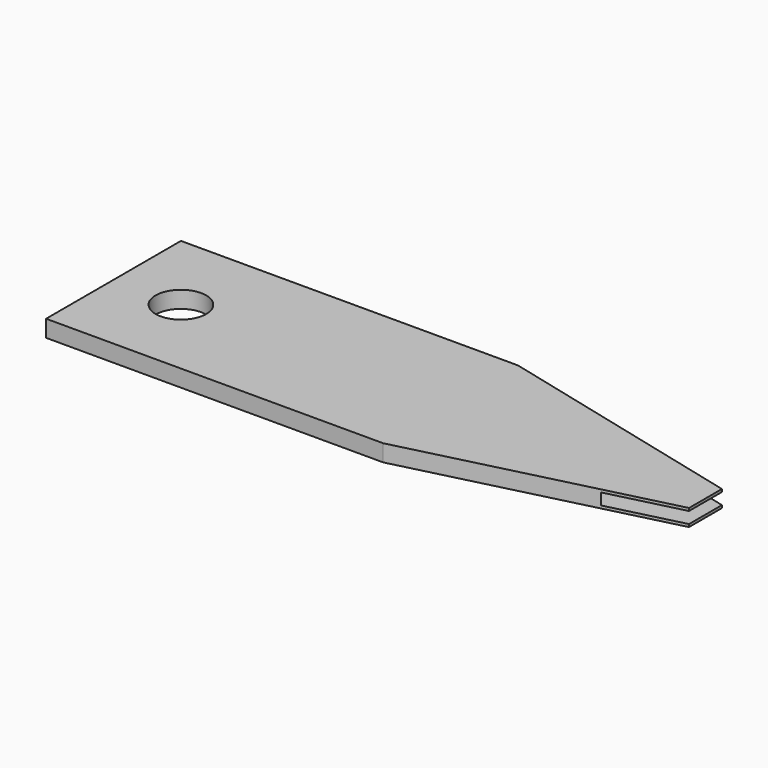
from build123d import *

# Parameters (mm, degrees)
F0_W      = 50.8
F0_H      = 12.7
F1_DEPTH  = 1.27
F2_R      = 1.905
F3_DEPTH  = 25.4
F5_DEPTH  = 25.4
F7_DEPTH  = 25.4
F8_W      = 0.7844022775
F8_H      = 0.8654778569
F9_DEPTH  = 25.4
F11_DEPTH = 25.4
F12_DEPTH = 2.54
F13_DEPTH = 2.54


with BuildPart() as f1:
    # F0 (on Top) → F1 (new body)
    with BuildSketch(Plane.XY):
        with Locations((43.457204476, -21.0564464647)):
            Rectangle(F0_W, F0_H)
    extrude(amount=F1_DEPTH)

    # F2 (on face) → F3 (cut)
    with BuildSketch(Plane.XY.offset(1.27)):
        with Locations((23.137204476, -21.0564464647)):
            Circle(F2_R)
    extrude(amount=-F3_DEPTH, mode=Mode.SUBTRACT)

    # F4 (on face) → F5 (cut)
    with BuildSketch(Plane.XY.offset(1.27)):
        Polygon((43.457204476, -14.7064464647), (68.857204476, -21.0564464647), (68.857204476, -14.7064464647), align=None)
        Polygon((68.857204476, -21.0564464647), (43.457204476, -27.4064464647), (68.857204476, -27.4064464647), align=None)
    extrude(amount=-F5_DEPTH, mode=Mode.SUBTRACT)

    # F6 (on face) → F7 (cut)
    with BuildSketch(Plane.XY.offset(1.27)):
        Polygon((66.2974044681, -34.9044203758), (68.857204476, -34.9044203758), (68.857204476, -21.0564464647), (66.2974044681, -21.6963964666), align=None)
        Polygon((66.2974044681, -21.6963964666), (68.857204476, -21.0564464647), (66.2974044681, -20.4164964627), align=None)
        Polygon((66.2974044681, -20.4164964627), (68.857204476, -21.0564464647), (68.857204476, -6.8288790062), (66.2974044681, -6.8288790062), align=None)
    extrude(amount=-F7_DEPTH, mode=Mode.SUBTRACT)

    # F8 (on face) → F9 (cut)
    with BuildSketch(Plane.YZ.offset(66.2974044681)):
        with Locations((-21.0564464647, 0.635)):
            Rectangle(F8_W, F8_H)
    extrude(amount=-F9_DEPTH, mode=Mode.SUBTRACT)

    # F10 (on face) → F11 (cut)
    with BuildSketch(Plane.XY.offset(1.27)):
        Polygon((66.2974044681, -20.4164964627), (62.6585483551, -19.5067824344), (62.6585483551, -22.6061104949), (66.2974044681, -21.6963964666), align=None)
    extrude(amount=-F11_DEPTH, mode=Mode.SUBTRACT)

    # F12 (cut): a face of the model
    f12_faces = [f1.faces().sort_by_distance(p)[0] for p in [
        (51.7779764116, -20.6642453259, 0.635),
    ]]
    extrude(f12_faces, amount=-F12_DEPTH, mode=Mode.SUBTRACT)

    # F13 (cut): a face of the model
    f13_faces = [f1.faces().sort_by_distance(p)[0] for p in [
        (51.7779764116, -21.4486476034, 0.635),
    ]]
    extrude(f13_faces, amount=-F13_DEPTH, mode=Mode.SUBTRACT)


solid = f1.part
